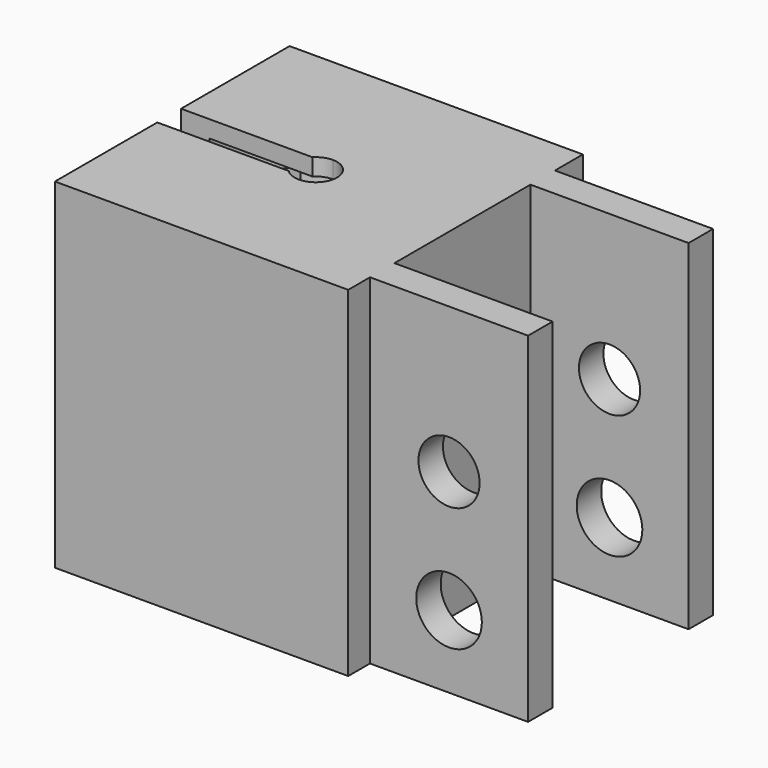
from build123d import *

# Parameters (mm, degrees)
F0_W      = 18.6
F0_H      = 3.6
F1_DEPTH  = 40
F2_W      = 1.5
F2_H      = 3.5
F3_DEPTH  = 40
F4_DEPTH  = 38
F5_DEPTH  = 11
F6_DEPTH  = 33
F2_H_2    = 8.25
F7_DEPTH  = 28
F8_R      = 3.86
F9_DEPTH  = 40000
F8_R_2    = 3.6
F10_DEPTH = 30


with BuildPart() as f1:
    # F0 (on Top) → F1 (new body)
    with BuildSketch(Plane.XY):
        with Locations((26.55, 11.8)):
            Rectangle(F0_W, F0_H)
        Polygon((17.25, 17.7), (-17.25, 17.7), (-17.25, -16.8), (17.25, -16.8), (17.25, -13.6), (17.25, -10), (17.25, 10), (17.25, 13.6), align=None)
        with Locations((26.55, -11.8)):
            Rectangle(F0_W, F0_H)
    extrude(amount=F1_DEPTH)

    # F2 (on face) → F3 (cut, through all)
    with BuildSketch(Plane(origin=(0, 0, 0), x_dir=(1, 0, 0), z_dir=(0, 0, -1))):
        with BuildLine():
            ThreePointArc((2.5, 0), (1.767766953, 1.767766953), (0, 2.5))
            Line((0, 2.5), (0, 1.75))
            Line((0, 1.75), (0, -1.75))
            Line((0, -1.75), (0, -2.5))
            ThreePointArc((0, -2.5), (1.767766953, -1.767766953), (2.5, 0))
        make_face()
        with BuildLine():
            Line((0, 1.75), (0, 2.5))
            ThreePointArc((0, 2.5), (-0.9682458366, 2.3048861143), (-1.7853571071, 1.75))
            Line((-1.7853571071, 1.75), (0, 1.75))
        make_face()
        with BuildLine():
            ThreePointArc((-1.7853571071, -1.75), (-0.9682458366, -2.3048861143), (0, -2.5))
            Line((0, -2.5), (0, -1.75))
            Line((0, -1.75), (-1.7853571071, -1.75))
        make_face()
        with BuildLine():
            Line((0, 1.75), (-1.7853571071, 1.75))
            ThreePointArc((-1.7853571071, 1.75), (-2.5, 0), (-1.7853571071, -1.75))
            Line((-1.7853571071, -1.75), (0, -1.75))
            Line((0, -1.75), (0, 1.75))
        make_face()
        with BuildLine():
            Line((-1.7853571071, 1.75), (-13.8901943831, 1.75))
            ThreePointArc((-13.8901943831, 1.75), (-14, 0), (-13.8901943831, -1.75))
            Line((-13.8901943831, -1.75), (-1.7853571071, -1.75))
            ThreePointArc((-1.7853571071, -1.75), (-2.5, 0), (-1.7853571071, 1.75))
        make_face()
        with BuildLine():
            ThreePointArc((-13.8901943831, -1.75), (-14, 0), (-13.8901943831, 1.75))
            Line((-13.8901943831, 1.75), (-15.75, 1.75))
            Line((-15.75, 1.75), (-15.75, -1.75))
            Line((-15.75, -1.75), (-13.8901943831, -1.75))
        make_face()
        with Locations((-16.5, 0)):
            Rectangle(F2_W, F2_H)
    extrude(amount=-F3_DEPTH, mode=Mode.SUBTRACT)

    # F2 (on face) → F4 (cut)
    with BuildSketch(Plane(origin=(0, 0, 0), x_dir=(1, 0, 0), z_dir=(0, 0, -1))):
        with BuildLine():
            ThreePointArc((-9.7979589711, -10), (3.1972216116, -13.6300320603), (13.2227077409, -4.6))
            Line((13.2227077409, -4.6), (0, -4.6))
            Line((0, -4.6), (0, -10))
            Line((0, -10), (-9.7979589711, -10))
        make_face()
        with BuildLine():
            Line((-1.7853571071, 1.75), (-13.8901943831, 1.75))
            ThreePointArc((-13.8901943831, 1.75), (-14, 0), (-13.8901943831, -1.75))
            Line((-13.8901943831, -1.75), (-1.7853571071, -1.75))
            ThreePointArc((-1.7853571071, -1.75), (-2.5, 0), (-1.7853571071, 1.75))
        make_face()
        with BuildLine():
            ThreePointArc((-13.8901943831, -1.75), (-12.5418410663, -6.2211110476), (-9.7979589711, -10))
            Line((-9.7979589711, -10), (0, -10))
            Line((0, -10), (0, -4.6))
            Line((0, -4.6), (0, -2.5))
            ThreePointArc((0, -2.5), (-0.9682458366, -2.3048861143), (-1.7853571071, -1.75))
            Line((-1.7853571071, -1.75), (-13.8901943831, -1.75))
        make_face()
        with BuildLine():
            Line((0, 10), (-9.7979589711, 10))
            ThreePointArc((-9.7979589711, 10), (-12.5418410663, 6.2211110476), (-13.8901943831, 1.75))
            Line((-13.8901943831, 1.75), (-1.7853571071, 1.75))
            ThreePointArc((-1.7853571071, 1.75), (-0.9682458366, 2.3048861143), (0, 2.5))
            Line((0, 2.5), (0, 4.6))
            Line((0, 4.6), (0, 10))
        make_face()
        with BuildLine():
            Line((0, 4.6), (13.2227077409, 4.6))
            ThreePointArc((13.2227077409, 4.6), (3.1972216116, 13.6300320603), (-9.7979589711, 10))
            Line((-9.7979589711, 10), (0, 10))
            Line((0, 10), (0, 4.6))
        make_face()
        with BuildLine():
            ThreePointArc((13.2227077409, -4.6), (13.8043092615, -2.3326049417), (14, 0))
            ThreePointArc((14, 0), (13.8043092615, 2.3326049417), (13.2227077409, 4.6))
            Line((13.2227077409, 4.6), (0, 4.6))
            Line((0, 4.6), (0, 2.5))
            ThreePointArc((0, 2.5), (1.767766953, 1.767766953), (2.5, 0))
            ThreePointArc((2.5, 0), (1.767766953, -1.767766953), (0, -2.5))
            Line((0, -2.5), (0, -4.6))
            Line((0, -4.6), (13.2227077409, -4.6))
        make_face()
    extrude(amount=-F4_DEPTH, mode=Mode.SUBTRACT)

    # F2 (on face) → F5 (cut)
    with BuildSketch(Plane(origin=(0, 0, 0), x_dir=(1, 0, 0), z_dir=(0, 0, -1))):
        with BuildLine():
            ThreePointArc((13.2227077409, 4.6), (13.8043092615, 2.3326049417), (14, 0))
            ThreePointArc((14, 0), (13.8043092615, -2.3326049417), (13.2227077409, -4.6))
            Line((13.2227077409, -4.6), (15.5454194173, -4.6))
            Line((15.5454194173, -4.6), (15.5454194173, 4.6))
            Line((15.5454194173, 4.6), (13.2227077409, 4.6))
        make_face()
    extrude(amount=-F5_DEPTH, mode=Mode.SUBTRACT)

    # F2 (on face) → F6 (cut)
    with BuildSketch(Plane(origin=(0, 0, 0), x_dir=(1, 0, 0), z_dir=(0, 0, -1))):
        with BuildLine():
            ThreePointArc((-13.8901943831, 1.75), (-12.5418410663, 6.2211110476), (-9.7979589711, 10))
            Line((-9.7979589711, 10), (-15.75, 10))
            Line((-15.75, 10), (-15.75, 1.75))
            Line((-15.75, 1.75), (-13.8901943831, 1.75))
        make_face()
        with BuildLine():
            ThreePointArc((-13.8901943831, -1.75), (-14, 0), (-13.8901943831, 1.75))
            Line((-13.8901943831, 1.75), (-15.75, 1.75))
            Line((-15.75, 1.75), (-15.75, -1.75))
            Line((-15.75, -1.75), (-13.8901943831, -1.75))
        make_face()
        with BuildLine():
            Line((-15.75, -10), (-9.7979589711, -10))
            ThreePointArc((-9.7979589711, -10), (-12.5418410663, -6.2211110476), (-13.8901943831, -1.75))
            Line((-13.8901943831, -1.75), (-15.75, -1.75))
            Line((-15.75, -1.75), (-15.75, -10))
        make_face()
    extrude(amount=-F6_DEPTH, mode=Mode.SUBTRACT)

    # F2 (on face) → F7 (cut)
    with BuildSketch(Plane(origin=(0, 0, 0), x_dir=(1, 0, 0), z_dir=(0, 0, -1))):
        with Locations((-16.5, 5.875)):
            Rectangle(F2_W, F2_H_2)
        with Locations((-16.5, -5.875)):
            Rectangle(F2_W, F2_H_2)
    extrude(amount=-F7_DEPTH, mode=Mode.SUBTRACT)

    # F8 (on face) → F9 (cut)
    with BuildSketch(Plane.XZ.offset(13.6)):
        with Locations((26.55, 8.547344245)):
            Circle(F8_R)
    extrude(amount=-F9_DEPTH, mode=Mode.SUBTRACT)

    # F8 (on face) → F10 (cut)
    with BuildSketch(Plane.XZ.offset(13.6)):
        with Locations((26.55, 22.8790044785)):
            Circle(F8_R_2)
    extrude(amount=-F10_DEPTH, mode=Mode.SUBTRACT)


solid = f1.part
